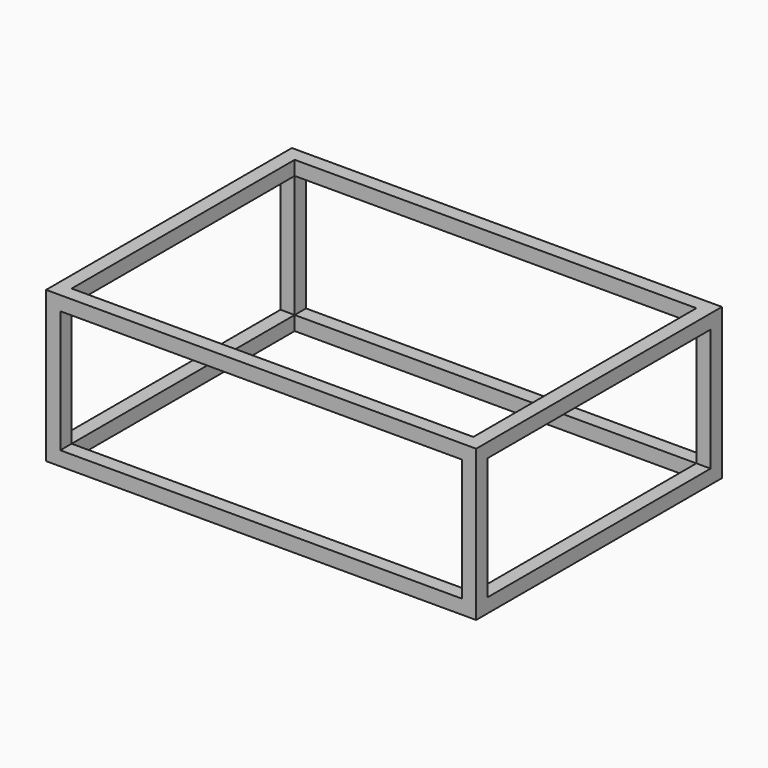
from build123d import *

# Parameters (mm, degrees)
F0_W     = 77
F0_H     = 55
F1_DEPTH = 27
F2_W     = 71.92
F2_H     = 49.92
F3_DEPTH = 27
F4_W     = 49.92
F4_H     = 21.92
F5_DEPTH = 127
F6_W     = 71.92
F6_H     = 21.92
F7_DEPTH = 70.104


with BuildPart() as f1:
    # F0 (on Top) → F1 (new body)
    with BuildSketch(Plane.XY):
        with Locations((3.67788, 15.154595)):
            Rectangle(F0_W, F0_H)
    extrude(amount=F1_DEPTH)

    # F2 (on face) → F3 (cut)
    with BuildSketch(Plane.XY.offset(27)):
        with Locations((3.67788, 15.154595)):
            Rectangle(F2_W, F2_H)
    extrude(amount=-F3_DEPTH, mode=Mode.SUBTRACT)

    # F4 (on face) → F5 (cut)
    with BuildSketch(Plane.YZ.offset(42.17788)):
        with Locations((15.154595, 13.5)):
            Rectangle(F4_W, F4_H)
    extrude(amount=-F5_DEPTH, mode=Mode.SUBTRACT)

    # F6 (on face) → F7 (cut)
    with BuildSketch(Plane.XZ.offset(12.345405)):
        with Locations((3.67788, 13.5)):
            Rectangle(F6_W, F6_H)
    extrude(amount=-F7_DEPTH, mode=Mode.SUBTRACT)


solid = f1.part
